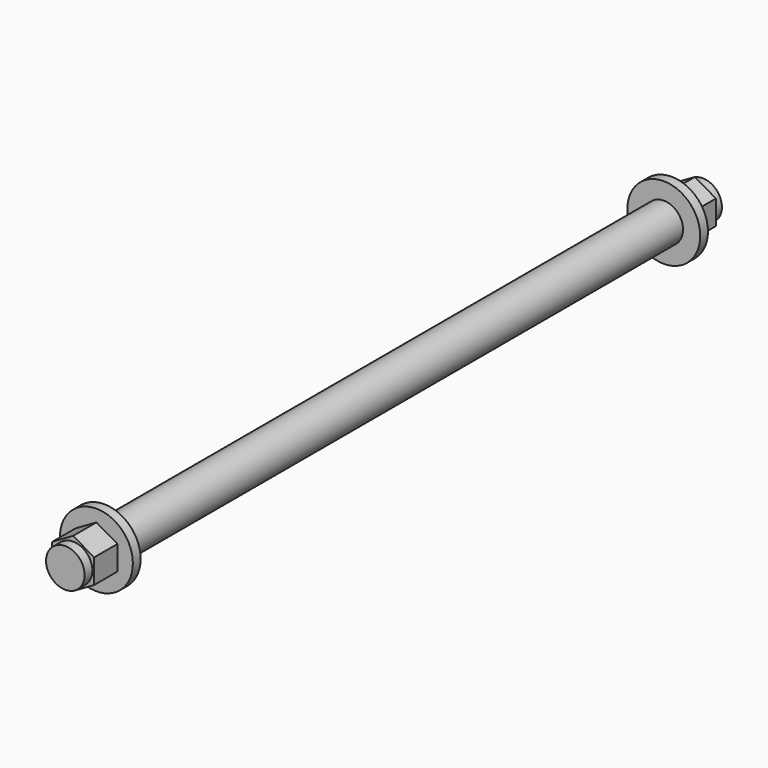
from build123d import *

# Parameters (mm, degrees)
SKETCH013_R     = 3.96875
PAD009_DEPTH    = 164
SKETCH014_R     = 7.5
PAD010_DEPTH    = 10
SKETCH015_R     = 7.5
POCKET003_DEPTH = 8
SKETCH016_R     = 7.5
SKETCH016_R_2   = 3.96875
POCKET004_DEPTH = 2
SKETCH017_R     = 7.5
PAD011_DEPTH    = 10
SKETCH018_R     = 7.5
POCKET005_DEPTH = 8
SKETCH019_R     = 7.5
SKETCH019_R_2   = 3.96875
POCKET006_DEPTH = 2


with BuildPart() as part:
    # Sketch013 → Pad009 (new body)
    with BuildSketch(Plane(origin=(500, 82, 56), x_dir=(1, 0, 0), z_dir=(0, -1, 0))):
        Circle(SKETCH013_R)
    extrude(amount=PAD009_DEPTH)

    # Sketch014 → Pad010 (new body)
    with BuildSketch(Plane(origin=(500, 82, 56), x_dir=(1, 0, 0), z_dir=(0, 1, 0))):
        Circle(SKETCH014_R)
    extrude(amount=-PAD010_DEPTH)

    # Sketch015 → Pocket003 (cut)
    with BuildSketch(Plane(origin=(500, 82, 56), x_dir=(1, 0, 0), z_dir=(0, 1, 0))):
        Circle(SKETCH015_R)
        Polygon((0, 5), (-4.330127, 2.5), (-4.330127, -2.5), (0, -5), (4.330127, -2.5), (4.330127, 2.5), align=None, mode=Mode.SUBTRACT)
    extrude(amount=-POCKET003_DEPTH, mode=Mode.SUBTRACT)

    # Sketch016 → Pocket004 (cut)
    with BuildSketch(Plane(origin=(500, 82, 56), x_dir=(1, 0, 0), z_dir=(0, 1, 0))):
        Circle(SKETCH016_R)
        Circle(SKETCH016_R_2, mode=Mode.SUBTRACT)
    extrude(amount=-POCKET004_DEPTH, mode=Mode.SUBTRACT)

    # Sketch017 → Pad011 (new body)
    with BuildSketch(Plane(origin=(500, -82, 56), x_dir=(1, 0, 0), z_dir=(0, -1, 0))):
        Circle(SKETCH017_R)
    extrude(amount=-PAD011_DEPTH)

    # Sketch018 → Pocket005 (cut)
    with BuildSketch(Plane(origin=(500, -82, 56), x_dir=(1, 0, 0), z_dir=(0, -1, 0))):
        Circle(SKETCH018_R)
        Polygon((0, 5), (-4.330127, 2.5), (-4.330127, -2.5), (0, -5), (4.330127, -2.5), (4.330127, 2.5), align=None, mode=Mode.SUBTRACT)
    extrude(amount=-POCKET005_DEPTH, mode=Mode.SUBTRACT)

    # Sketch019 → Pocket006 (cut)
    with BuildSketch(Plane(origin=(500, -82, 56), x_dir=(1, 0, 0), z_dir=(0, -1, 0))):
        Circle(SKETCH019_R)
        Circle(SKETCH019_R_2, mode=Mode.SUBTRACT)
    extrude(amount=-POCKET006_DEPTH, mode=Mode.SUBTRACT)


with BuildPart() as part_1:
    # Clone014 placement: moved
    add(part.part.moved(Location((-48.5, 0, -84))))


solid = part_1.part
